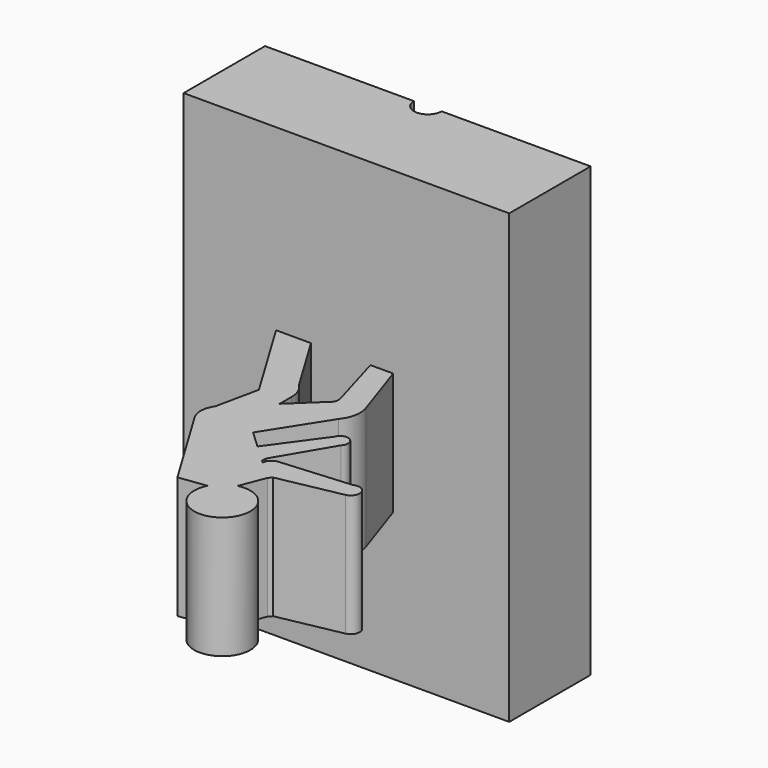
from build123d import *

# Parameters (mm, degrees)
F0_W     = 80
F0_H     = 110
F1_DEPTH = 25
F3_DEPTH = 122.9
F5_DEPTH = 15


with BuildPart() as f1:
    # F0 (on Front) → F1 (new body)
    with BuildSketch(Plane.XZ):
        with Locations((-8.13742, 3.912851)):
            Rectangle(F0_W, F0_H)
    extrude(amount=F1_DEPTH)

    # F2 (on face) → F3 (cut)
    with BuildSketch(Plane(origin=(0, 0, -51.087149), x_dir=(1, 0, 0), z_dir=(0, 0, -1))):
        with BuildLine():
            ThreePointArc((-11.533121, 0), (-8.13742, -3.395701), (-4.741719, 0))
            Line((-4.741719, 0), (-11.533121, 0))
        make_face()
        with BuildLine():
            Line((-11.533121, 0), (-4.741719, 0))
            ThreePointArc((-4.741719, 0), (-8.13742, 3.395701), (-11.533121, 0))
        make_face()
    extrude(amount=-F3_DEPTH, mode=Mode.SUBTRACT)

    # F4 (on Top) → F5 (join, symmetric)
    with BuildSketch(Plane.XY):
        with BuildLine():
            Line((-25.619638, -24.679836), (-12.538977, -46.366195))
            Line((-12.538977, -46.366195), (-14.788412, -56.985627))
            ThreePointArc((-14.788412, -56.985627), (-15.806818, -59.965228), (-15.021523, -63.014571))
            Line((-15.021523, -63.014571), (-2.031637, -84.550433))
            Line((-2.031637, -84.550433), (4.691661, -83.66965))
            ThreePointArc((4.691661, -83.66965), (15.085472, -92.244671), (9.213005, -80.117164))
            Line((9.213005, -80.117164), (11.628102, -73.915706))
            Line((11.628102, -73.915706), (12.371922, -73.123584))
            Line((12.371922, -73.123584), (27.714186, -70.096895))
            ThreePointArc((27.714186, -70.096895), (29.362088, -67.253343), (26.327906, -65.990366))
            Line((26.327906, -65.990366), (8.524408, -67.434899))
            Line((8.524408, -67.434899), (7.119579, -68.6341))
            Line((7.119579, -68.6341), (6.93642, -69.498782))
            Line((6.93642, -69.498782), (6.318386, -69.050649))
            Line((6.318386, -69.050649), (6.318386, -67.899771))
            Line((6.318386, -67.899771), (14.191412, -54.533935))
            ThreePointArc((14.191412, -54.533935), (13.865423, -51.491249), (10.974195, -52.49375))
            Line((10.974195, -52.49375), (1.951577, -64.937122))
            Line((1.951577, -64.937122), (-2.338045, -60.909065))
            Line((-2.338045, -60.909065), (6.969567, -46.276149))
            ThreePointArc((6.969567, -46.276149), (8.484232, -43.032088), (8.229074, -39.460949))
            Line((8.229074, -39.460949), (3.24195, -24.679836))
            Line((3.24195, -24.679836), (-2.338045, -24.679836))
            Line((-2.338045, -24.679836), (1.951577, -39.460949))
            ThreePointArc((1.951577, -39.460949), (1.878572, -40.948809), (0.905328, -42.076573))
            Line((0.905328, -42.076573), (-5.799454, -48.446116))
            Line((-5.799454, -48.446116), (-5.799454, -44.733086))
            ThreePointArc((-5.799454, -44.733086), (-6.321583, -42.158323), (-7.805476, -39.990356))
            Line((-7.805476, -39.990356), (-17.040393, -24.679836))
            Line((-17.040393, -24.679836), (-25.619638, -24.679836))
        make_face()
    extrude(amount=F5_DEPTH, both=True)


solid = f1.part
